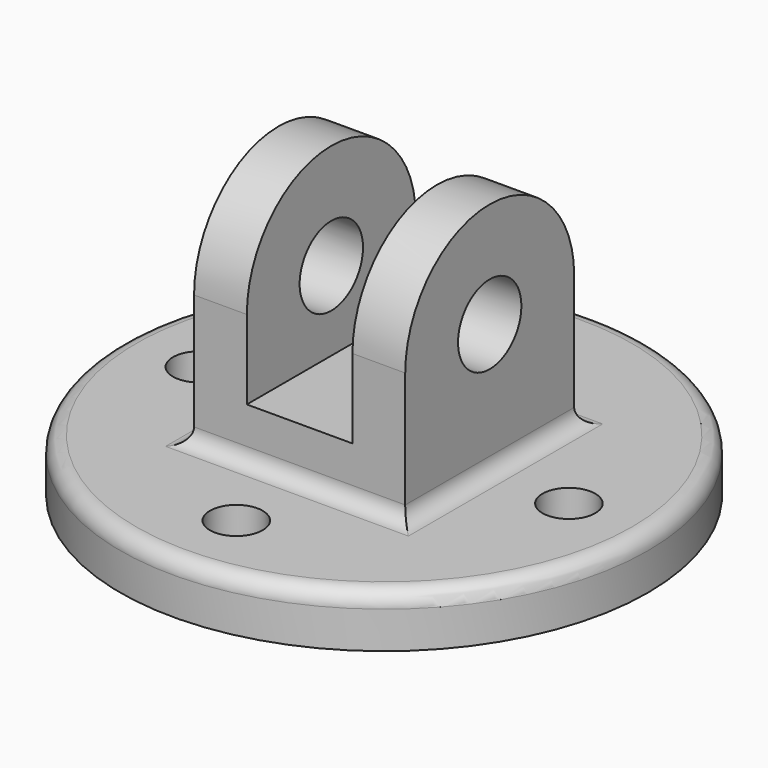
from build123d import *

# Parameters (mm, degrees)
F0_R     = 63.5
F0_R_2   = 6.35
F1_DEPTH = 12.7
F3_DEPTH = 25.4
F5_DEPTH = 88.901
F4_R     = 9.525
F6_DEPTH = 88.901
F7_R     = 3.81


with BuildPart() as f1:
    # F0 (on Top) → F1 (new body)
    with BuildSketch(Plane.XY):
        Circle(F0_R)
        with Locations((0, -44.45)):
            Circle(F0_R_2, mode=Mode.SUBTRACT)
        with Locations((-44.45, 0)):
            Circle(F0_R_2, mode=Mode.SUBTRACT)
        with Locations((44.45, 0)):
            Circle(F0_R_2, mode=Mode.SUBTRACT)
        with Locations((0, 44.45)):
            Circle(F0_R_2, mode=Mode.SUBTRACT)
    extrude(amount=F1_DEPTH)

    # F2 (on Front) → F3 (join, symmetric)
    with BuildSketch(Plane.XZ):
        Polygon((-25.4, 76.2), (-25.4, 0), (25.4, 0), (25.4, 76.2), (12.7, 76.2), (12.7, 25.4), (-12.7, 25.4), (-12.7, 76.2), align=None)
    extrude(amount=F3_DEPTH, both=True)

    # F4 (on face) → F5 (cut, through all)
    with BuildSketch(Plane.YZ.offset(25.4)):
        with BuildLine():
            ThreePointArc((-25.4, 44.45), (0, 69.85), (25.4, 44.45))
            Line((25.4, 44.45), (25.4, 76.2))
            Line((25.4, 76.2), (-25.4, 76.2))
            Line((-25.4, 76.2), (-25.4, 44.45))
        make_face()
    extrude(amount=-F5_DEPTH, mode=Mode.SUBTRACT)

    # F4 (on face) → F6 (cut, through all)
    with BuildSketch(Plane.YZ.offset(25.4)):
        with Locations((0, 44.45)):
            Circle(F4_R)
    extrude(amount=-F6_DEPTH, mode=Mode.SUBTRACT)

    # F7
    f7_edges = [f1.edges().sort_by_distance(p)[0] for p in [
        (-63.5, 0, 12.7),
        (25.4, 0, 12.7),
        (0, -25.4, 12.7),
        (0, 25.4, 12.7),
        (-25.4, 0, 12.7),
    ]]
    fillet(f7_edges, radius=F7_R)


solid = f1.part
